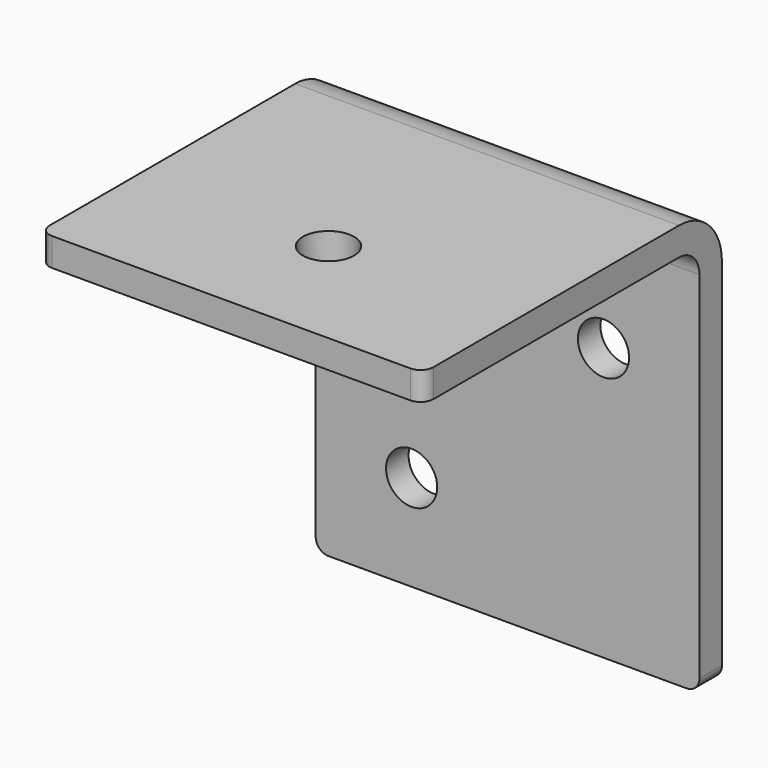
from build123d import *

# Parameters (mm, degrees)
F1_DEPTH = 38.1
F2_R     = 1.27
F3_R     = 2.54
F4_DEPTH = 2.794
F5_R     = 2.54
F6_DEPTH = 2.794


with BuildPart() as f1:
    # F0 (on Right) → F1 (new body)
    with BuildSketch(Plane.YZ):
        with BuildLine():
            Line((-2.794, 0), (0, 0))
            Line((0, 0), (0, 36.576))
            ThreePointArc((0, 36.576), (-1.562292, 40.347708), (-5.334, 41.91))
            Line((-5.334, 41.91), (-37.084, 41.91))
            Line((-37.084, 41.91), (-37.084, 39.116))
            Line((-37.084, 39.116), (-5.334, 39.116))
            ThreePointArc((-5.334, 39.116), (-3.537949, 38.372051), (-2.794, 36.576))
            Line((-2.794, 36.576), (-2.794, 0))
        make_face()
    extrude(amount=F1_DEPTH)

    # F2
    f2_edges = [f1.edges().sort_by_distance(p)[0] for p in [
        (0, -37.084, 40.513),
        (38.1, -37.084, 40.513),
        (38.1, -1.397, 0),
        (0, -1.397, 0),
    ]]
    fillet(f2_edges, radius=F2_R)

    # F3 (on face) → F4 (cut, through all)
    with BuildSketch(Plane.XY.offset(41.91)):
        with Locations((19.05, -25.019)):
            Circle(F3_R)
    extrude(amount=-F4_DEPTH, mode=Mode.SUBTRACT)

    # F5 (on face) → F6 (cut, through all)
    with BuildSketch(Plane.XZ.offset(2.794)):
        with Locations((28.575, 27.051)):
            Circle(F5_R)
        with Locations((9.525, 9.525)):
            Circle(F5_R)
    extrude(amount=-F6_DEPTH, mode=Mode.SUBTRACT)


solid = f1.part
